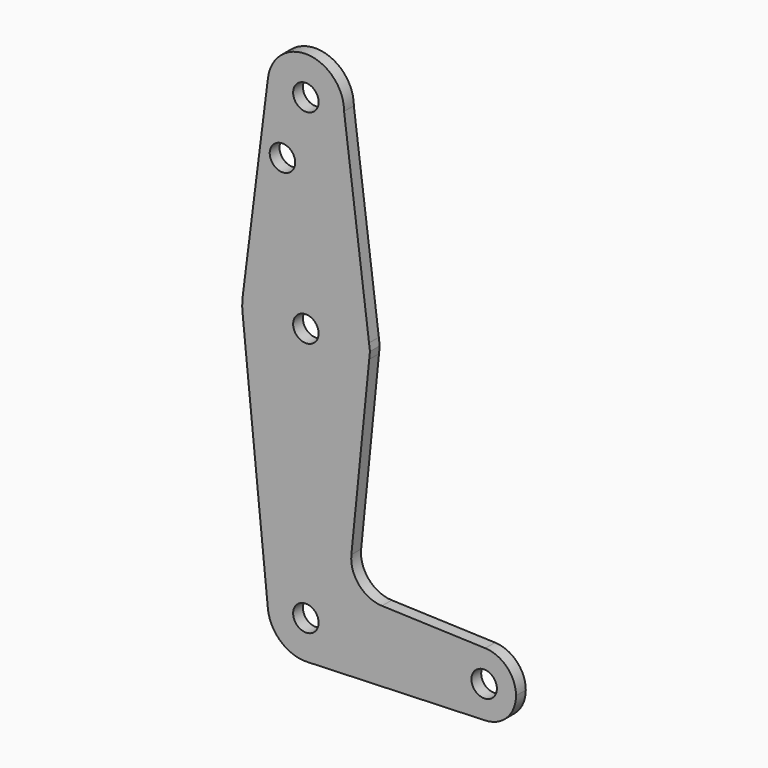
from build123d import *

# Parameters (mm, degrees)
F0_R     = 3.175
F1_DEPTH = 3.048


with BuildPart() as f1:
    # F0 (on Front) → F1 (new body)
    with BuildSketch(Plane.XZ):
        with BuildLine():
            ThreePointArc((-9.450293, 115.490625), (-0.596483, 104.793695), (9.525, 114.3))
            ThreePointArc((9.525, 114.3), (0.596483, 123.806305), (-9.450293, 115.490625))
        make_face()
        with Locations((0, 114.3)):
            Circle(F0_R, mode=Mode.SUBTRACT)
        with BuildLine():
            Line((15.747457, 65.508289), (9.525, 114.3))
            ThreePointArc((9.525, 114.3), (-0.596483, 104.793695), (-9.450293, 115.490625))
            Line((-9.450293, 115.490625), (-15.750488, 65.484375))
            ThreePointArc((-15.750488, 65.484375), (-0.012053, 79.374995), (15.747457, 65.508289))
        make_face()
        with Locations((-5.839922, 99.109083)):
            Circle(F0_R, mode=Mode.SUBTRACT)
        with BuildLine():
            Line((15.976396, 63.713129), (15.747457, 65.508289))
            ThreePointArc((15.747457, 65.508289), (15.843082, 64.506168), (15.875, 63.5))
            ThreePointArc((15.875, 63.5), (15.855094, 62.705253), (15.795426, 61.9125))
            Line((15.795426, 61.9125), (15.976396, 63.713129))
        make_face()
        with BuildLine():
            ThreePointArc((15.875, 63.5), (15.843082, 64.506168), (15.747457, 65.508289))
            ThreePointArc((15.747457, 65.508289), (-0.012053, 79.374995), (-15.750488, 65.484375))
            ThreePointArc((-15.750488, 65.484375), (-15.873744, 63.699705), (-15.795426, 61.9125))
            ThreePointArc((-15.795426, 61.9125), (0, 47.625), (15.795426, 61.9125))
            ThreePointArc((15.795426, 61.9125), (15.855094, 62.705253), (15.875, 63.5))
        make_face()
        with Locations((0, 63.5)):
            Circle(F0_R, mode=Mode.SUBTRACT)
        with BuildLine():
            ThreePointArc((15.795426, 61.9125), (0, 47.625), (-15.795426, 61.9125))
            Line((-15.795426, 61.9125), (-9.477255, -0.9525))
            ThreePointArc((-9.477255, -0.9525), (-0.476848, 9.513056), (9.525, 0))
            ThreePointArc((9.525, 0), (6.854408, -6.613827), (0.340179, -9.518923))
            Line((0.340179, -9.518923), (44.733482, -7.932436))
            ThreePointArc((44.733482, -7.932436), (36.5125, 0), (44.733482, 7.932436))
            Line((44.733482, 7.932436), (18.9676, 8.853234))
            ThreePointArc((18.9676, 8.853234), (13.2612, 11.571359), (11.341187, 17.593382))
            Line((11.341187, 17.593382), (15.795426, 61.9125))
        make_face()
        with BuildLine():
            ThreePointArc((9.525, 0), (-0.476848, 9.513056), (-9.477255, -0.9525))
            ThreePointArc((-9.477255, -0.9525), (-6.262383, -7.17692), (0.340179, -9.518923))
            ThreePointArc((0.340179, -9.518923), (6.854408, -6.613827), (9.525, 0))
        make_face()
        Circle(F0_R, mode=Mode.SUBTRACT)
        with BuildLine():
            ThreePointArc((44.733482, 7.932436), (36.5125, 0), (44.733482, -7.932436))
            ThreePointArc((44.733482, -7.932436), (50.162007, -5.511523), (52.3875, 0))
            ThreePointArc((52.3875, 0), (50.162007, 5.511523), (44.733482, 7.932436))
        make_face()
        with Locations((44.45, 0)):
            Circle(F0_R, mode=Mode.SUBTRACT)
    extrude(amount=F1_DEPTH)


solid = f1.part
